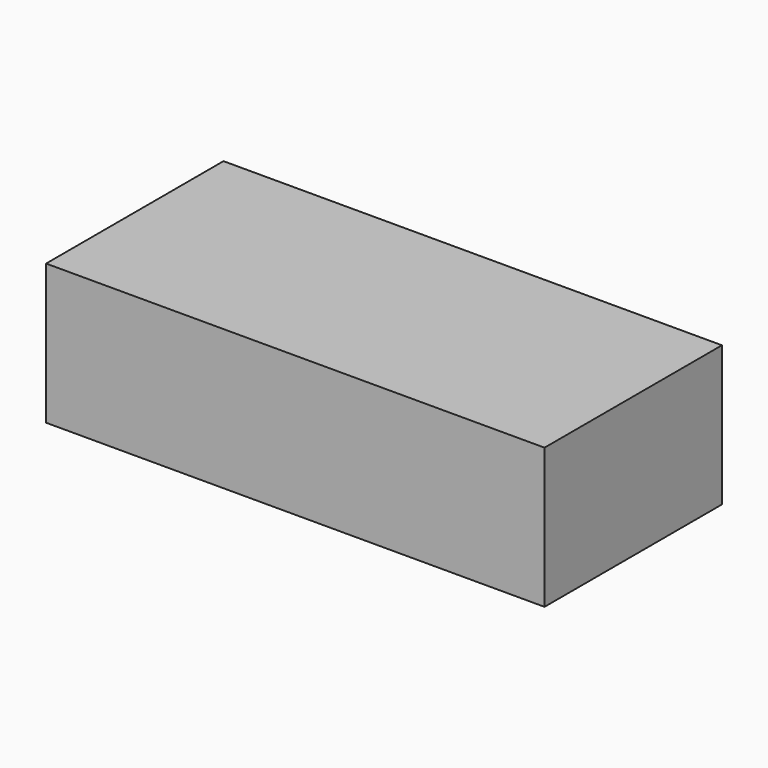
from build123d import *

# Parameters (mm, degrees)
F0_W          = 90.333872
F0_H          = 40.189356
F1_DEPTH      = 25.4
F1_FACE_W     = 90.333872
F1_FACE_H     = 40.189356
F2_DEPTH      = 5.842
F2_DEPTH_BACK = 3.81


with BuildPart() as f1:
    # F0 (on Top) → F1 (new body)
    with BuildSketch(Plane.XY):
        Rectangle(F0_W, F0_H)
    extrude(amount=F1_DEPTH)

    # F1_face (on face) → F2 (join, two sides)
    with BuildSketch(Plane(origin=(0, 0, 0), x_dir=(1, 0, 0), z_dir=(0, 0, -1))) as f2_sk:
        Rectangle(F1_FACE_W, F1_FACE_H)
    extrude(amount=-F2_DEPTH)
    extrude(f2_sk.sketch, amount=-F2_DEPTH_BACK)


solid = f1.part
